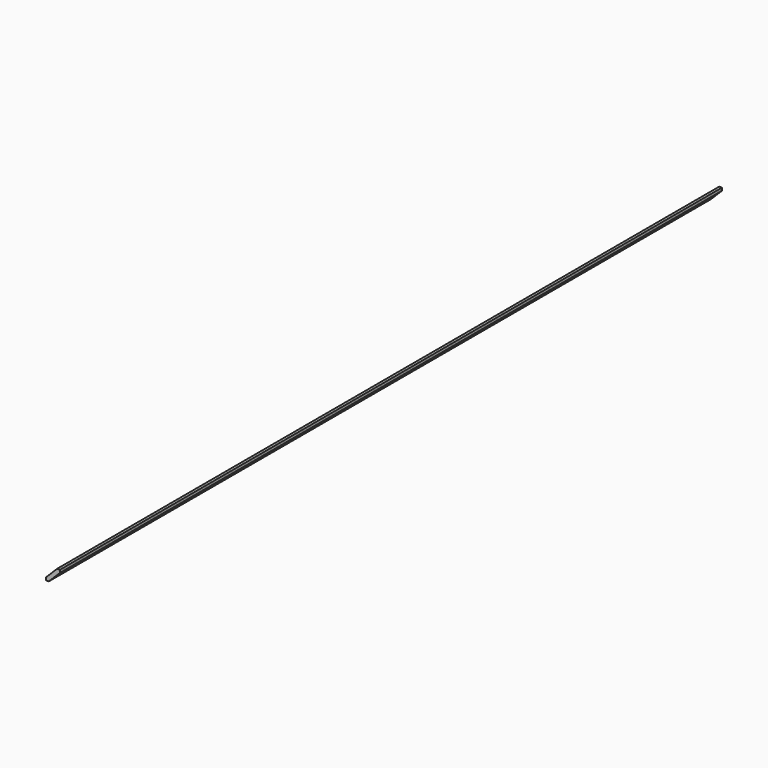
from build123d import *

# Parameters (mm, degrees)
F0_W     = 12.7
F0_H     = 762
F1_DEPTH = 12.7
F2_SIZE  = 10.16


with BuildPart() as f1:
    # F0 (on Top) → F1 (new body)
    with BuildSketch(Plane.XY):
        with Locations((-53.53354, 320.315027)):
            Rectangle(F0_W, F0_H)
    extrude(amount=F1_DEPTH)

    # F2
    f2_edges = [f1.edges().sort_by_distance(p)[0] for p in [
        (-59.88354, 320.315027, 12.7),
        (-47.18354, 320.315027, 0),
    ]]
    chamfer(f2_edges, length=F2_SIZE)


solid = f1.part
